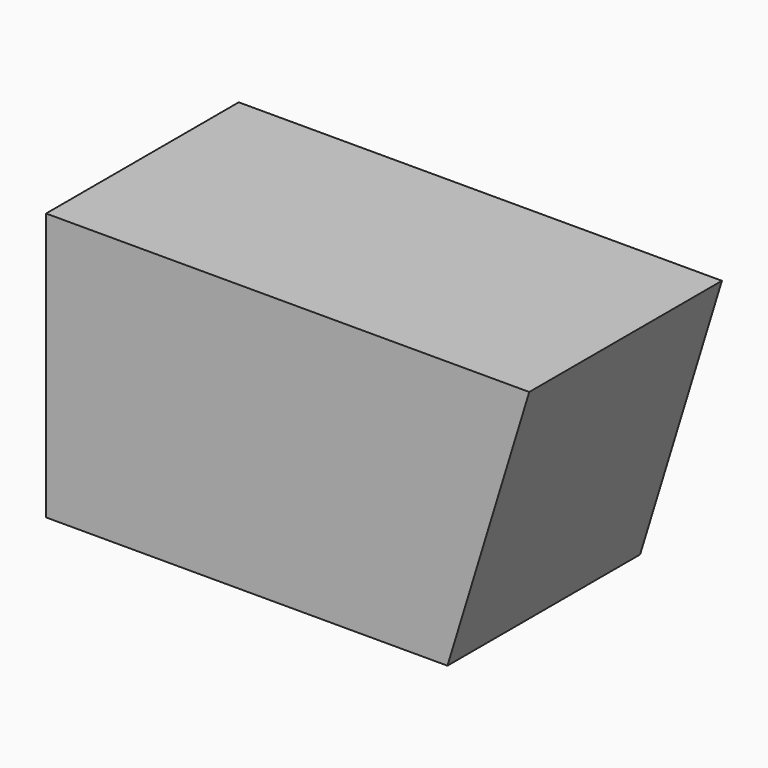
from build123d import *

# Parameters (mm, degrees)
F0_W     = 300
F0_H     = 200
F1_DEPTH = 180
F3_DEPTH = 180


with BuildPart() as f1:
    # F0 (on Front) → F1 (new body)
    with BuildSketch(Plane.XZ):
        Rectangle(F0_W, F0_H)
    extrude(amount=-F1_DEPTH)

    # F2 (on face) → F3 (join)
    with BuildSketch(Plane.XZ):
        Polygon((150, 100), (150, -100), (211.146136, 100), align=None)
    extrude(amount=-F3_DEPTH)


solid = f1.part
